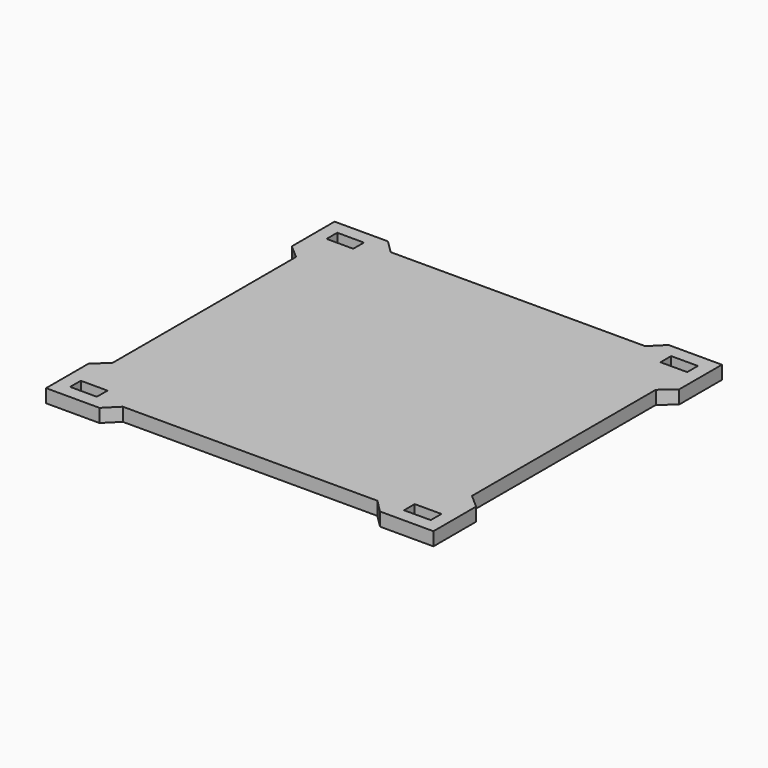
from build123d import *

# Parameters (mm, degrees)
F0_W     = 92.8
F0_H     = 86.4
F0_W_2   = 6.4
F0_H_2   = 3.2
F1_DEPTH = 3.2
F3_DEPTH = 3.201


with BuildPart() as f1:
    # F0 (on Top) → F1 (new body)
    with BuildSketch(Plane.XY):
        Rectangle(F0_W, F0_H)
        with Locations((-40, -38.4)):
            Rectangle(F0_W_2, F0_H_2, mode=Mode.SUBTRACT)
        with Locations((40, -38.4)):
            Rectangle(F0_W_2, F0_H_2, mode=Mode.SUBTRACT)
        with Locations((-40, 38.4)):
            Rectangle(F0_W_2, F0_H_2, mode=Mode.SUBTRACT)
        with Locations((40, 38.4)):
            Rectangle(F0_W_2, F0_H_2, mode=Mode.SUBTRACT)
    extrude(amount=F1_DEPTH)

    # F2 (on face) → F3 (cut, through all)
    with BuildSketch(Plane.XY.offset(3.2)):
        Polygon((-33.6, -43.2), (33.6, -43.2), (30.5, -40.1), (0, -40.1), (-30.5, -40.1), align=None)
        Polygon((33.6, 43.2), (-33.6, 43.2), (-30.5, 40.1), (0, 40.1), (30.5, 40.1), align=None)
        Polygon((43.086752, -27.529045), (46.4, -30.4), (46.4, 30.4), (43.086752, 27.529045), (43.086752, 0), align=None)
        Polygon((-43.086752, 27.529045), (-46.4, 30.4), (-46.4, -30.4), (-43.086752, -27.529045), (-43.086752, 0), align=None)
    extrude(amount=-F3_DEPTH, mode=Mode.SUBTRACT)


solid = f1.part
